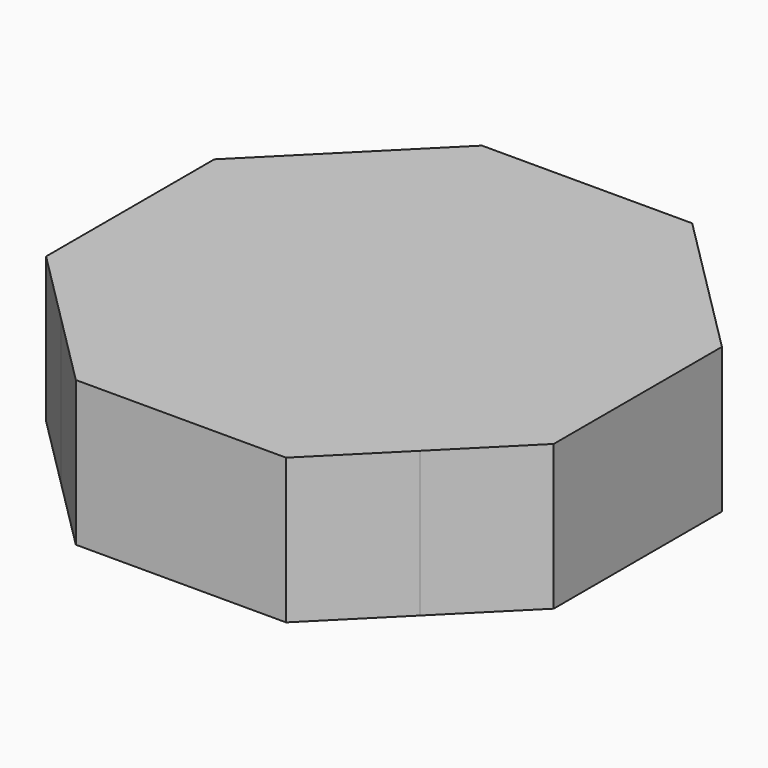
from build123d import *

# Parameters (mm, degrees)
F0_W     = 4.445
F0_H     = 8.89
F0_W_2   = 8.89
F0_H_2   = 4.445
F1_DEPTH = 19.05


with BuildPart() as f1:
    # F0 (on Top) → F1 (new body)
    with BuildSketch(Plane.XY):
        with Locations((6.6675, 0)):
            Rectangle(F0_W, F0_H)
        Polygon((23.573172, -23.573172), (33.3375, -13.808845), (33.3375, 13.808845), (23.573172, 23.573172), (8.89, 4.445), (8.89, -4.445), align=None)
        Polygon((4.445, -8.89), (23.573172, -23.573172), (8.89, -4.445), (4.445, -4.445), align=None)
        Polygon((8.89, 4.445), (23.573172, 23.573172), (4.445, 8.89), (4.445, 4.445), align=None)
        with Locations((0, -6.6675)):
            Rectangle(F0_W_2, F0_H_2)
        Polygon((-33.3375, -13.808845), (-23.573172, -23.573172), (-8.89, -4.445), (-8.89, 4.445), (-23.573172, 23.573172), (-33.3375, 13.808845), align=None)
        Polygon((-23.573172, -23.573172), (-4.445, -8.89), (-4.445, -4.445), (-8.89, -4.445), align=None)
        with Locations((-6.6675, 0)):
            Rectangle(F0_W, F0_H)
        with Locations((0, 6.6675)):
            Rectangle(F0_W_2, F0_H_2)
        Polygon((13.808845, -33.3375), (23.573172, -23.573172), (4.445, -8.89), (-4.445, -8.89), (-23.573172, -23.573172), (-13.808845, -33.3375), align=None)
        Polygon((-4.445, 4.445), (-4.445, 8.89), (-23.573172, 23.573172), (-8.89, 4.445), align=None)
        Polygon((4.445, 8.89), (23.573172, 23.573172), (13.808845, 33.3375), (-13.808845, 33.3375), (-23.573172, 23.573172), (-4.445, 8.89), align=None)
        Rectangle(F0_W_2, F0_H)
    extrude(amount=F1_DEPTH)


solid = f1.part
